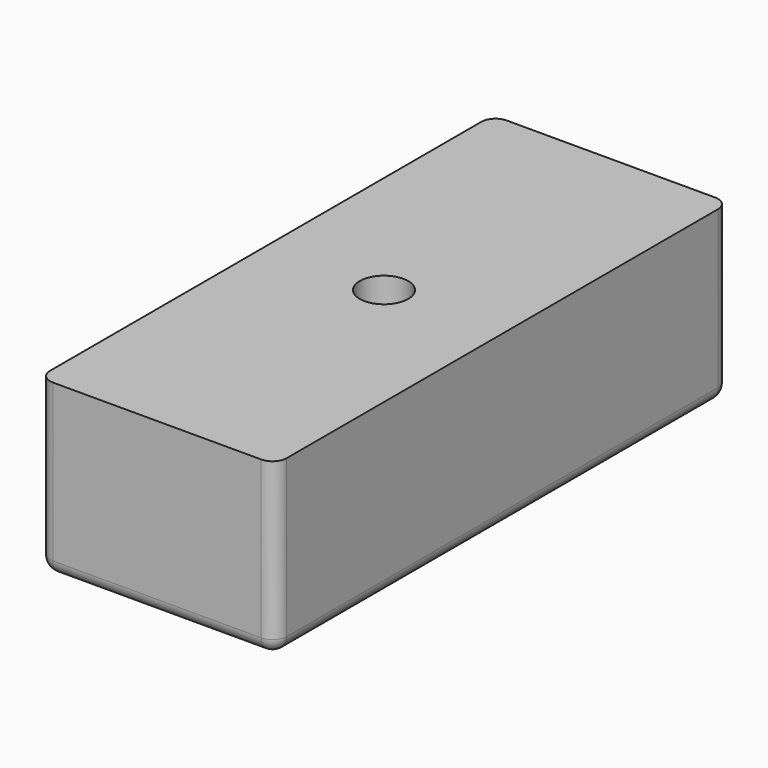
from build123d import *

# Parameters (mm, degrees)
F0_W     = 85.1696208119
F0_H     = 61.5866929293
F1_DEPTH = 102.108
F3_D     = 17.4625
F4_R     = 5.08


with BuildPart() as f1:
    # F0 (on Front) → F1 (new body, symmetric)
    with BuildSketch(Plane.XZ):
        Rectangle(F0_W, F0_H)
    extrude(amount=F1_DEPTH, both=True)

    # F3 (through all)
    with Locations(Plane.XY.offset(30.7933464646)):
        with Locations((0, 0)):
            Hole(F3_D / 2)

    # F4
    f4_edges = [f1.edges().sort_by_distance(p)[0] for p in [
        (0, -102.108, -30.793346),
        (42.58481, 0, -30.793346),
        (0, 102.108, -30.793346),
        (-42.58481, 0, -30.793346),
        (-42.58481, -102.108, 0),
        (-42.58481, 102.108, 0),
        (42.58481, 102.108, 0),
        (42.58481, -102.108, 0),
    ]]
    fillet(f4_edges, radius=F4_R)


solid = f1.part
